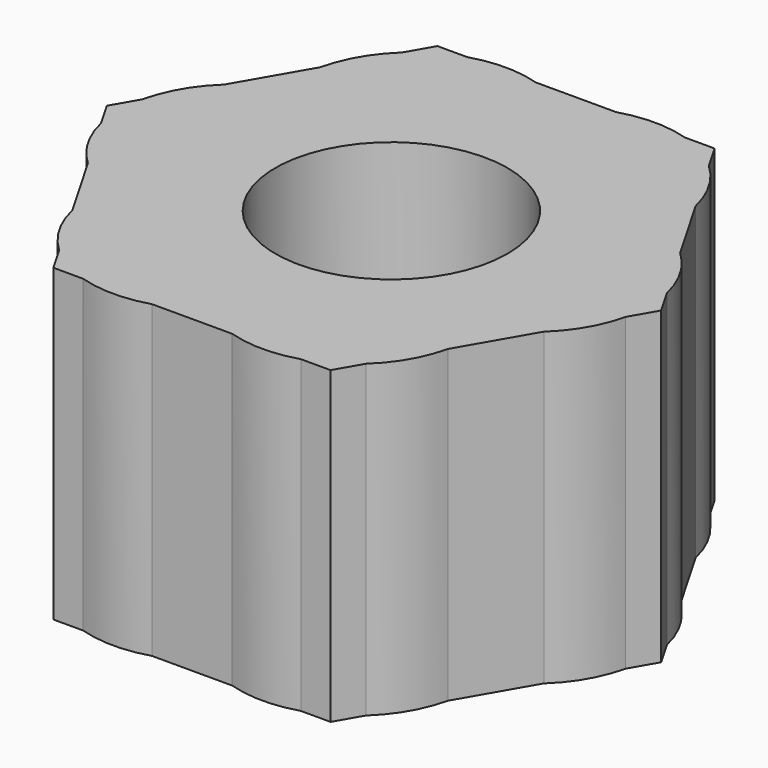
from build123d import *

# Parameters (mm, degrees)
F1_DEPTH = 25.4
F2_R     = 9.525
F3_DEPTH = 25.401


with BuildPart() as f1:
    # F0 (on Top) → F1 (new body)
    with BuildSketch(Plane.XY):
        with BuildLine():
            Line((-21.51077619, 2.1122427287), (-22.730280098, 0))
            Line((-22.730280098, 0), (-21.51077619, -2.1122427287))
            ThreePointArc((-21.51077619, -2.1122427287), (-21.7479316793, 0), (-21.51077619, 2.1122427287))
        make_face()
        with BuildLine():
            ThreePointArc((-18.6961097966, 6.9873879283), (-20.4718236503, 4.7625), (-21.51077619, 2.1122427287))
            Line((-21.51077619, 2.1122427287), (-18.6961097966, 6.9873879283))
        make_face()
        with BuildLine():
            Line((-18.6961097966, 6.9873879283), (-21.51077619, 2.1122427287))
            ThreePointArc((-21.51077619, 2.1122427287), (-21.7479316793, 0), (-21.51077619, -2.1122427287))
            Line((-21.51077619, -2.1122427287), (-18.6961097966, -6.9873879283))
            ThreePointArc((-18.6961097966, -6.9873879283), (-17.19259128, -8.1257681762), (-15.4942602985, -8.9456153542))
            ThreePointArc((-15.4942602985, -8.9456153542), (-10.8739658396, -2.3364773719), (-2.8401372205, -1.6397539888))
            ThreePointArc((-2.8401372205, -1.6397539888), (-2.7335496599, -0.8229543668), (-2.6979316793, 0))
            ThreePointArc((-2.6979316793, 0), (-2.7335496599, 0.8229543668), (-2.8401372205, 1.6397539888))
            ThreePointArc((-2.8401372205, 1.6397539888), (-10.8739658396, 2.3364773719), (-15.4942602985, 8.9456153542))
            ThreePointArc((-15.4942602985, 8.9456153542), (-17.19259128, 8.1257681762), (-18.6961097966, 6.9873879283))
        make_face()
        with BuildLine():
            Line((-18.6961097966, -6.9873879283), (-21.51077619, -2.1122427287))
            ThreePointArc((-21.51077619, -2.1122427287), (-20.4718236503, -4.7625), (-18.6961097966, -6.9873879283))
        make_face()
        with BuildLine():
            Line((-15.3993103504, 12.6976120717), (-18.6961097966, 6.9873879283))
            ThreePointArc((-18.6961097966, 6.9873879283), (-17.19259128, 8.1257681762), (-15.4942602985, 8.9456153542))
            ThreePointArc((-15.4942602985, 8.9456153542), (-15.6334173058, 10.8263367173), (-15.3993103504, 12.6976120717))
        make_face()
        with BuildLine():
            ThreePointArc((-15.4942602985, -8.9456153542), (-17.19259128, -8.1257681762), (-18.6961097966, -6.9873879283))
            Line((-18.6961097966, -6.9873879283), (-15.3993103504, -12.6976120717))
            ThreePointArc((-15.3993103504, -12.6976120717), (-15.6334173058, -10.8263367173), (-15.4942602985, -8.9456153542))
        make_face()
        with BuildLine():
            ThreePointArc((-12.584643957, 17.5727572713), (-14.3603578107, 15.347869343), (-15.3993103504, 12.6976120717))
            Line((-15.3993103504, 12.6976120717), (-12.584643957, 17.5727572713))
        make_face()
        with BuildLine():
            Line((-12.584643957, 17.5727572713), (-15.3993103504, 12.6976120717))
            ThreePointArc((-15.3993103504, 12.6976120717), (-15.6334173058, 10.8263367173), (-15.4942602985, 8.9456153542))
            ThreePointArc((-15.4942602985, 8.9456153542), (-7.4604316793, 8.248891971), (-2.8401372205, 1.6397539888))
            ThreePointArc((-2.8401372205, 1.6397539888), (-1.3489658396, 2.3364773719), (0, 3.2795079776))
            ThreePointArc((0, 3.2795079776), (-3.4135341604, 10.585369343), (0, 17.8912307084))
            ThreePointArc((0, 17.8912307084), (-1.5591739742, 18.9521048935), (-3.2967994463, 19.685))
            Line((-3.2967994463, 19.685), (-8.926132233, 19.685))
            ThreePointArc((-8.926132233, 19.685), (-10.8739658396, 18.834261314), (-12.584643957, 17.5727572713))
        make_face()
        with BuildLine():
            ThreePointArc((-15.4942602985, -8.9456153542), (-15.6334173058, -10.8263367173), (-15.3993103504, -12.6976120717))
            Line((-15.3993103504, -12.6976120717), (-12.584643957, -17.5727572713))
            ThreePointArc((-12.584643957, -17.5727572713), (-10.8739658396, -18.834261314), (-8.926132233, -19.685))
            Line((-8.926132233, -19.685), (-3.2967994463, -19.685))
            ThreePointArc((-3.2967994463, -19.685), (-1.5591739742, -18.9521048935), (0, -17.8912307084))
            ThreePointArc((0, -17.8912307084), (-3.4135341604, -10.585369343), (0, -3.2795079776))
            ThreePointArc((0, -3.2795079776), (-1.3489658396, -2.3364773719), (-2.8401372205, -1.6397539888))
            ThreePointArc((-2.8401372205, -1.6397539888), (-7.4604316793, -8.248891971), (-15.4942602985, -8.9456153542))
        make_face()
        with BuildLine():
            Line((-12.584643957, -17.5727572713), (-15.3993103504, -12.6976120717))
            ThreePointArc((-15.3993103504, -12.6976120717), (-14.3603578107, -15.347869343), (-12.584643957, -17.5727572713))
        make_face()
        with BuildLine():
            Line((-11.365140049, 19.685), (-12.584643957, 17.5727572713))
            ThreePointArc((-12.584643957, 17.5727572713), (-10.8739658396, 18.834261314), (-8.926132233, 19.685))
            Line((-8.926132233, 19.685), (-11.365140049, 19.685))
        make_face()
        with BuildLine():
            ThreePointArc((-8.926132233, -19.685), (-10.8739658396, -18.834261314), (-12.584643957, -17.5727572713))
            Line((-12.584643957, -17.5727572713), (-11.365140049, -19.685))
            Line((-11.365140049, -19.685), (-8.926132233, -19.685))
        make_face()
        with BuildLine():
            ThreePointArc((-3.2967994463, 19.685), (-6.1114658396, 20.110369343), (-8.926132233, 19.685))
            Line((-8.926132233, 19.685), (-3.2967994463, 19.685))
        make_face()
        with BuildLine():
            ThreePointArc((3.4135341604, 10.585369343), (2.5180572388, 6.5533777211), (0, 3.2795079776))
            ThreePointArc((0, 3.2795079776), (1.3489658396, 2.3364773719), (2.8401372205, 1.6397539888))
            ThreePointArc((2.8401372205, 1.6397539888), (7.4604316793, 8.248891971), (15.4942602985, 8.9456153542))
            ThreePointArc((15.4942602985, 8.9456153542), (15.600847859, 9.7624149761), (15.6364658396, 10.585369343))
            ThreePointArc((15.6364658396, 10.585369343), (15.5769912864, 11.6481266143), (15.3993103504, 12.6976120717))
            Line((15.3993103504, 12.6976120717), (12.584643957, 17.5727572713))
            ThreePointArc((12.584643957, 17.5727572713), (10.8739658396, 18.834261314), (8.926132233, 19.685))
            Line((8.926132233, 19.685), (3.2967994463, 19.685))
            ThreePointArc((3.2967994463, 19.685), (1.5591739742, 18.9521048935), (0, 17.8912307084))
            ThreePointArc((0, 17.8912307084), (2.5180572388, 14.6173609648), (3.4135341604, 10.585369343))
        make_face()
        with BuildLine():
            Line((-3.2967994463, -19.685), (-8.926132233, -19.685))
            ThreePointArc((-8.926132233, -19.685), (-6.1114658396, -20.110369343), (-3.2967994463, -19.685))
        make_face()
        with BuildLine():
            ThreePointArc((2.8401372205, -1.6397539888), (1.3489658396, -2.3364773719), (0, -3.2795079776))
            ThreePointArc((0, -3.2795079776), (2.5180572388, -6.5533777211), (3.4135341604, -10.585369343))
            ThreePointArc((3.4135341604, -10.585369343), (2.5180572388, -14.6173609648), (0, -17.8912307084))
            ThreePointArc((0, -17.8912307084), (1.5591739742, -18.9521048935), (3.2967994463, -19.685))
            Line((3.2967994463, -19.685), (8.926132233, -19.685))
            ThreePointArc((8.926132233, -19.685), (10.8739658396, -18.834261314), (12.584643957, -17.5727572713))
            Line((12.584643957, -17.5727572713), (15.3993103504, -12.6976120717))
            ThreePointArc((15.3993103504, -12.6976120717), (15.5769912864, -11.6481266143), (15.6364658396, -10.585369343))
            ThreePointArc((15.6364658396, -10.585369343), (15.600847859, -9.7624149761), (15.4942602985, -8.9456153542))
            ThreePointArc((15.4942602985, -8.9456153542), (7.4604316793, -8.248891971), (2.8401372205, -1.6397539888))
        make_face()
        with BuildLine():
            Line((3.2967994463, 19.685), (-3.2967994463, 19.685))
            ThreePointArc((-3.2967994463, 19.685), (-1.5591739742, 18.9521048935), (0, 17.8912307084))
            ThreePointArc((0, 17.8912307084), (1.5591739742, 18.9521048935), (3.2967994463, 19.685))
        make_face()
        with BuildLine():
            ThreePointArc((15.4942602985, 8.9456153542), (10.8739658396, 2.3364773719), (2.8401372205, 1.6397539888))
            ThreePointArc((2.8401372205, 1.6397539888), (2.6979316793, 0), (2.8401372205, -1.6397539888))
            ThreePointArc((2.8401372205, -1.6397539888), (10.8739658396, -2.3364773719), (15.4942602985, -8.9456153542))
            ThreePointArc((15.4942602985, -8.9456153542), (17.19259128, -8.1257681762), (18.6961097966, -6.9873879283))
            Line((18.6961097966, -6.9873879283), (21.51077619, -2.1122427287))
            ThreePointArc((21.51077619, -2.1122427287), (21.688457126, -1.0627572713), (21.7479316793, 0))
            ThreePointArc((21.7479316793, 0), (21.688457126, 1.0627572713), (21.51077619, 2.1122427287))
            Line((21.51077619, 2.1122427287), (18.6961097966, 6.9873879283))
            ThreePointArc((18.6961097966, 6.9873879283), (17.19259128, 8.1257681762), (15.4942602985, 8.9456153542))
        make_face()
        with BuildLine():
            ThreePointArc((0, -17.8912307084), (-1.5591739742, -18.9521048935), (-3.2967994463, -19.685))
            Line((-3.2967994463, -19.685), (3.2967994463, -19.685))
            ThreePointArc((3.2967994463, -19.685), (1.5591739742, -18.9521048935), (0, -17.8912307084))
        make_face()
        with BuildLine():
            ThreePointArc((8.926132233, 19.685), (6.1114658396, 20.110369343), (3.2967994463, 19.685))
            Line((3.2967994463, 19.685), (8.926132233, 19.685))
        make_face()
        with BuildLine():
            ThreePointArc((15.6364658396, 10.585369343), (15.600847859, 9.7624149761), (15.4942602985, 8.9456153542))
            ThreePointArc((15.4942602985, 8.9456153542), (17.19259128, 8.1257681762), (18.6961097966, 6.9873879283))
            Line((18.6961097966, 6.9873879283), (15.3993103504, 12.6976120717))
            ThreePointArc((15.3993103504, 12.6976120717), (15.5769912864, 11.6481266143), (15.6364658396, 10.585369343))
        make_face()
        with BuildLine():
            Line((8.926132233, -19.685), (3.2967994463, -19.685))
            ThreePointArc((3.2967994463, -19.685), (6.1114658396, -20.110369343), (8.926132233, -19.685))
        make_face()
        with BuildLine():
            ThreePointArc((18.6961097966, -6.9873879283), (17.19259128, -8.1257681762), (15.4942602985, -8.9456153542))
            ThreePointArc((15.4942602985, -8.9456153542), (15.600847859, -9.7624149761), (15.6364658396, -10.585369343))
            ThreePointArc((15.6364658396, -10.585369343), (15.5769912864, -11.6481266143), (15.3993103504, -12.6976120717))
            Line((15.3993103504, -12.6976120717), (18.6961097966, -6.9873879283))
        make_face()
        with BuildLine():
            Line((11.365140049, 19.685), (8.926132233, 19.685))
            ThreePointArc((8.926132233, 19.685), (10.8739658396, 18.834261314), (12.584643957, 17.5727572713))
            Line((12.584643957, 17.5727572713), (11.365140049, 19.685))
        make_face()
        with BuildLine():
            ThreePointArc((21.51077619, 2.1122427287), (20.4718236503, 4.7625), (18.6961097966, 6.9873879283))
            Line((18.6961097966, 6.9873879283), (21.51077619, 2.1122427287))
        make_face()
        with BuildLine():
            ThreePointArc((12.584643957, -17.5727572713), (10.8739658396, -18.834261314), (8.926132233, -19.685))
            Line((8.926132233, -19.685), (11.365140049, -19.685))
            Line((11.365140049, -19.685), (12.584643957, -17.5727572713))
        make_face()
        with BuildLine():
            Line((21.51077619, -2.1122427287), (18.6961097966, -6.9873879283))
            ThreePointArc((18.6961097966, -6.9873879283), (20.4718236503, -4.7625), (21.51077619, -2.1122427287))
        make_face()
        with BuildLine():
            ThreePointArc((15.3993103504, 12.6976120717), (14.3603578107, 15.347869343), (12.584643957, 17.5727572713))
            Line((12.584643957, 17.5727572713), (15.3993103504, 12.6976120717))
        make_face()
        with BuildLine():
            Line((22.730280098, 0), (21.51077619, 2.1122427287))
            ThreePointArc((21.51077619, 2.1122427287), (21.688457126, 1.0627572713), (21.7479316793, 0))
            ThreePointArc((21.7479316793, 0), (21.688457126, -1.0627572713), (21.51077619, -2.1122427287))
            Line((21.51077619, -2.1122427287), (22.730280098, 0))
        make_face()
        with BuildLine():
            Line((15.3993103504, -12.6976120717), (12.584643957, -17.5727572713))
            ThreePointArc((12.584643957, -17.5727572713), (14.3603578107, -15.347869343), (15.3993103504, -12.6976120717))
        make_face()
        with BuildLine():
            ThreePointArc((-2.8401372205, 1.6397539888), (-7.4604316793, 8.248891971), (-15.4942602985, 8.9456153542))
            ThreePointArc((-15.4942602985, 8.9456153542), (-10.8739658396, 2.3364773719), (-2.8401372205, 1.6397539888))
        make_face()
        with BuildLine():
            ThreePointArc((0, 17.8912307084), (-3.4135341604, 10.585369343), (0, 3.2795079776))
            ThreePointArc((0, 3.2795079776), (2.5180572388, 6.5533777211), (3.4135341604, 10.585369343))
            ThreePointArc((3.4135341604, 10.585369343), (2.5180572388, 14.6173609648), (0, 17.8912307084))
        make_face()
        with BuildLine():
            Line((-12.584643957, 17.5727572713), (-15.3993103504, 12.6976120717))
            ThreePointArc((-15.3993103504, 12.6976120717), (-15.6334173058, 10.8263367173), (-15.4942602985, 8.9456153542))
            ThreePointArc((-15.4942602985, 8.9456153542), (-7.4604316793, 8.248891971), (-2.8401372205, 1.6397539888))
            ThreePointArc((-2.8401372205, 1.6397539888), (-1.3489658396, 2.3364773719), (0, 3.2795079776))
            ThreePointArc((0, 3.2795079776), (-3.4135341604, 10.585369343), (0, 17.8912307084))
            ThreePointArc((0, 17.8912307084), (-1.5591739742, 18.9521048935), (-3.2967994463, 19.685))
            Line((-3.2967994463, 19.685), (-8.926132233, 19.685))
            ThreePointArc((-8.926132233, 19.685), (-10.8739658396, 18.834261314), (-12.584643957, 17.5727572713))
        make_face()
        with BuildLine():
            ThreePointArc((15.4942602985, 8.9456153542), (7.4604316793, 8.248891971), (2.8401372205, 1.6397539888))
            ThreePointArc((2.8401372205, 1.6397539888), (10.8739658396, 2.3364773719), (15.4942602985, 8.9456153542))
        make_face()
        with BuildLine():
            ThreePointArc((15.4942602985, -8.9456153542), (10.8739658396, -2.3364773719), (2.8401372205, -1.6397539888))
            ThreePointArc((2.8401372205, -1.6397539888), (7.4604316793, -8.248891971), (15.4942602985, -8.9456153542))
        make_face()
        with BuildLine():
            ThreePointArc((3.4135341604, -10.585369343), (2.5180572388, -6.5533777211), (0, -3.2795079776))
            ThreePointArc((0, -3.2795079776), (-3.4135341604, -10.585369343), (0, -17.8912307084))
            ThreePointArc((0, -17.8912307084), (2.5180572388, -14.6173609648), (3.4135341604, -10.585369343))
        make_face()
        with BuildLine():
            ThreePointArc((-2.8401372205, -1.6397539888), (-10.8739658396, -2.3364773719), (-15.4942602985, -8.9456153542))
            ThreePointArc((-15.4942602985, -8.9456153542), (-7.4604316793, -8.248891971), (-2.8401372205, -1.6397539888))
        make_face()
        with BuildLine():
            ThreePointArc((0, 3.2795079776), (-1.3489658396, 2.3364773719), (-2.8401372205, 1.6397539888))
            ThreePointArc((-2.8401372205, 1.6397539888), (-2.7335496599, 0.8229543668), (-2.6979316793, 0))
            ThreePointArc((-2.6979316793, 0), (-2.7335496599, -0.8229543668), (-2.8401372205, -1.6397539888))
            ThreePointArc((-2.8401372205, -1.6397539888), (-1.3489658396, -2.3364773719), (0, -3.2795079776))
            ThreePointArc((0, -3.2795079776), (1.3489658396, -2.3364773719), (2.8401372205, -1.6397539888))
            ThreePointArc((2.8401372205, -1.6397539888), (2.6979316793, 0), (2.8401372205, 1.6397539888))
            ThreePointArc((2.8401372205, 1.6397539888), (1.3489658396, 2.3364773719), (0, 3.2795079776))
        make_face()
    extrude(amount=F1_DEPTH)

    # F2 (on face) → F3 (cut, through all)
    with BuildSketch(Plane.XY.offset(25.4)):
        with Locations((0.6049536171, 0)):
            Circle(F2_R)
    extrude(amount=-F3_DEPTH, mode=Mode.SUBTRACT)


solid = f1.part
